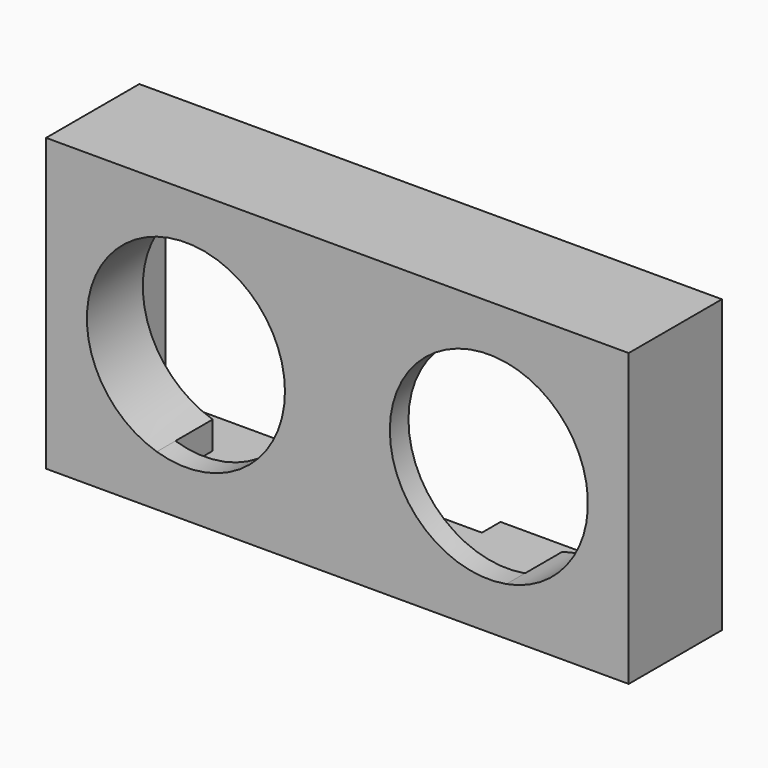
from build123d import *

# Parameters (mm, degrees)
SKETCH004_W   = 50
SKETCH004_H   = 25
SKETCH004_W_2 = 45.5
SKETCH004_H_2 = 21
PAD001_DEPTH  = 10
SKETCH003_R   = 0.9
PAD002_DEPTH  = 6
SKETCH005_W   = 50
SKETCH005_H   = 25
SKETCH005_R   = 8.5
PAD003_DEPTH  = 2
SKETCH006_W   = 12
SKETCH006_H   = 2
POCKET_DEPTH  = 2


with BuildPart() as part:
    # Sketch004 (on DatumPlane) → Pad001 (new body)
    with BuildSketch(Plane(origin=(-8.845912, -3.712389, 7.5), x_dir=(1, 0, 0), z_dir=(0, 1, 0))):
        Rectangle(SKETCH004_W, SKETCH004_H)
        Rectangle(SKETCH004_W_2, SKETCH004_H_2, mode=Mode.SUBTRACT)
    extrude(amount=PAD001_DEPTH)

    # Sketch003 (on DatumPlane) → Pad002 (join)
    with BuildSketch(Plane(origin=(-8.845912, -3.712389, 7.5), x_dir=(1, 0, 0), z_dir=(0, 1, 0))):
        with BuildLine():
            Line((-23.5, -10.75), (-14.5, -10.75))
            Line((-14.5, -8.3666), (-14.5, -10.75))
            ThreePointArc((-15.5, 8.124038), (-21.484415, -0.514499), (-14.5, -8.3666))
            Line((-15.5, 10.75), (-15.5, 8.124038))
            Line((-15.5, 10.75), (-23.5, 10.75))
            Line((-23.5, 10.75), (-23.5, -10.75))
        make_face()
        with Locations((-21, 8.7)):
            Circle(SKETCH003_R, mode=Mode.SUBTRACT)
        with Locations((-21, -8.7)):
            Circle(SKETCH003_R, mode=Mode.SUBTRACT)
        with BuildLine():
            Line((23.5, -10.75), (23.5, 10.75))
            Line((23.5, 10.75), (14.5, 10.75))
            Line((14.5, 8.3666), (14.5, 10.75))
            ThreePointArc((14.5, -8.3666), (21.5, 0), (14.5, 8.3666))
            Line((14.5, -8.3666), (14.5, -10.75))
            Line((14.5, -10.75), (23.5, -10.75))
        make_face()
        with Locations((21, -8.7)):
            Circle(SKETCH003_R, mode=Mode.SUBTRACT)
        with Locations((21, 8.7)):
            Circle(SKETCH003_R, mode=Mode.SUBTRACT)
    extrude(amount=PAD002_DEPTH)

    # Sketch005 (on DatumPlane) → Pad003 (join)
    with BuildSketch(Plane(origin=(-8.845912, -3.712389, 7.5), x_dir=(1, 0, 0), z_dir=(0, 1, 0))):
        Rectangle(SKETCH005_W, SKETCH005_H)
        with Locations((-13, 0)):
            Circle(SKETCH005_R, mode=Mode.SUBTRACT)
        with Locations((13, 0)):
            Circle(SKETCH005_R, mode=Mode.SUBTRACT)
    extrude(amount=PAD003_DEPTH)

    # Sketch006 (on Face11 of Pad003) → Pocket (cut)
    with BuildSketch(Plane(origin=(-8.845912, 6.287611, 7.5), x_dir=(1, 0, 0), z_dir=(0, 1, 0))):
        with Locations((0, 11.5)):
            Rectangle(SKETCH006_W, SKETCH006_H)
    extrude(amount=-POCKET_DEPTH, mode=Mode.SUBTRACT)


with BuildPart() as part_1:
    # Body001 placement: moved
    add(part.part.moved(Location((24, 0, 0))))


solid = part_1.part
